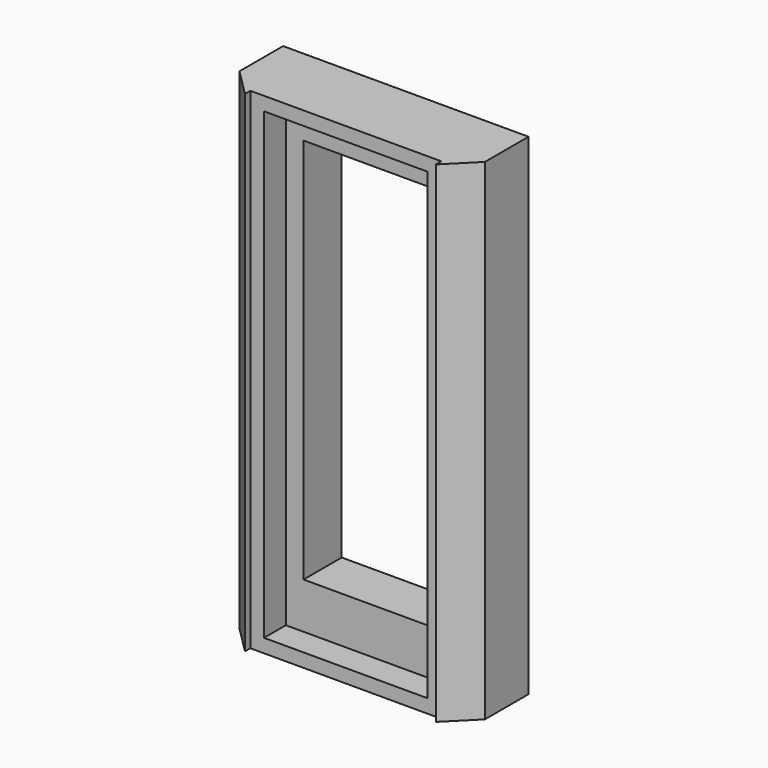
from build123d import *

# Parameters (mm, degrees)
F0_W        = 228.6
F0_H        = 76.2
F1_DEPTH    = 457.2
F2_SIZE     = 25.4
F3_W        = 59.69
F3_H        = 360
F4_DEPTH    = 76.2
F1_FACE_W   = 177.8
F1_FACE_H   = 457.2
F1_FACE_W_2 = 119.38
F1_FACE_H_2 = 360
F5_DEPTH    = 6.35
F6_DEPTH    = 31.75


with BuildPart() as f1:
    # F0 (on Top) → F1 (new body)
    with BuildSketch(Plane.XY):
        Rectangle(F0_W, F0_H)
    extrude(amount=F1_DEPTH)

    # F2
    f2_edges = [f1.edges().sort_by_distance(p)[0] for p in [
        (-114.3, -38.1, 228.6),
        (114.3, -38.1, 228.6),
    ]]
    chamfer(f2_edges, length=F2_SIZE)

    # F3 (on face) → F4 (cut)
    with BuildSketch(Plane.XZ.offset(38.1)):
        with Locations((29.845, 235.544)):
            Rectangle(F3_W, F3_H)
        with Locations((-29.845, 235.544)):
            Rectangle(F3_W, F3_H)
    extrude(amount=-F4_DEPTH, mode=Mode.SUBTRACT)

    # F3 (on face) + F1_face (on face) → F5 (cut)
    with BuildSketch(Plane.XZ.offset(38.1)):
        Polygon((-76.2, 12.7), (0, 12.7), (0, 55.544), (-59.69, 55.544), (-59.69, 415.544), (0, 415.544), (0, 444.5), (-76.2, 444.5), align=None)
        Polygon((0, 55.544), (0, 12.7), (76.2, 12.7), (76.2, 444.5), (0, 444.5), (0, 415.544), (59.69, 415.544), (59.69, 55.544), align=None)
    with BuildSketch(Plane(origin=(0, -38.1, 228.6), x_dir=(1, 0, 0), z_dir=(0, -1, 0))):
        Rectangle(F1_FACE_W, F1_FACE_H)
        with Locations((0, 6.944)):
            Rectangle(F1_FACE_W_2, F1_FACE_H_2, mode=Mode.SUBTRACT)
    extrude(amount=-F5_DEPTH, mode=Mode.SUBTRACT)

    # F3 (on face) → F6 (cut)
    with BuildSketch(Plane.XZ.offset(38.1)):
        Polygon((0, 55.544), (0, 12.7), (76.2, 12.7), (76.2, 444.5), (0, 444.5), (0, 415.544), (59.69, 415.544), (59.69, 55.544), align=None)
        Polygon((-76.2, 12.7), (0, 12.7), (0, 55.544), (-59.69, 55.544), (-59.69, 415.544), (0, 415.544), (0, 444.5), (-76.2, 444.5), align=None)
    extrude(amount=-F6_DEPTH, mode=Mode.SUBTRACT)


solid = f1.part
